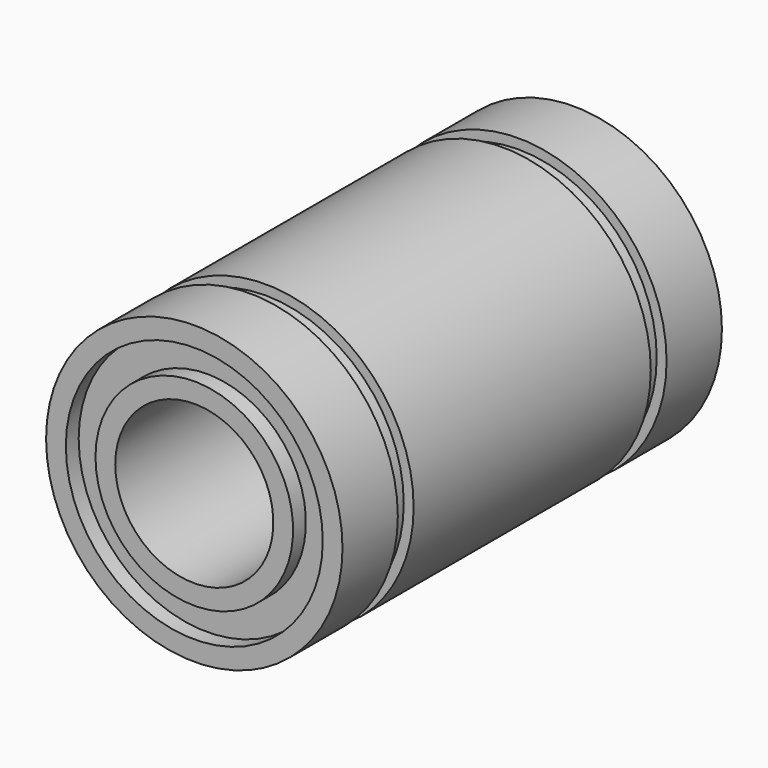
from build123d import *


with BuildPart() as f1:
    # F0 (on Top) → F1 (revolve)
    with BuildSketch(Plane.XY):
        Polygon((-6.5, 12), (-7.5, 12), (-7.5, 11.188397), (-7.5, 8.5), (-7, 8.5), (-7, 7.5), (-7.5, 7.5), (-7.5, 0), (-7.5, -7.5), (-7, -7.5), (-7, -8.5), (-7.5, -8.5), (-7.5, -11.188397), (-7.5, -12), (-6.5, -12), (-6.5, -11.188397), (-5, -11.188397), (-5, -12), (-4, -12), (-4, 0), (-4, 12), (-5, 12), (-5, 11.188397), (-6.5, 11.188397), align=None)
    revolve(axis=Axis((0, -0.43956, 0), (0, -1, 0)))


solid = f1.part
